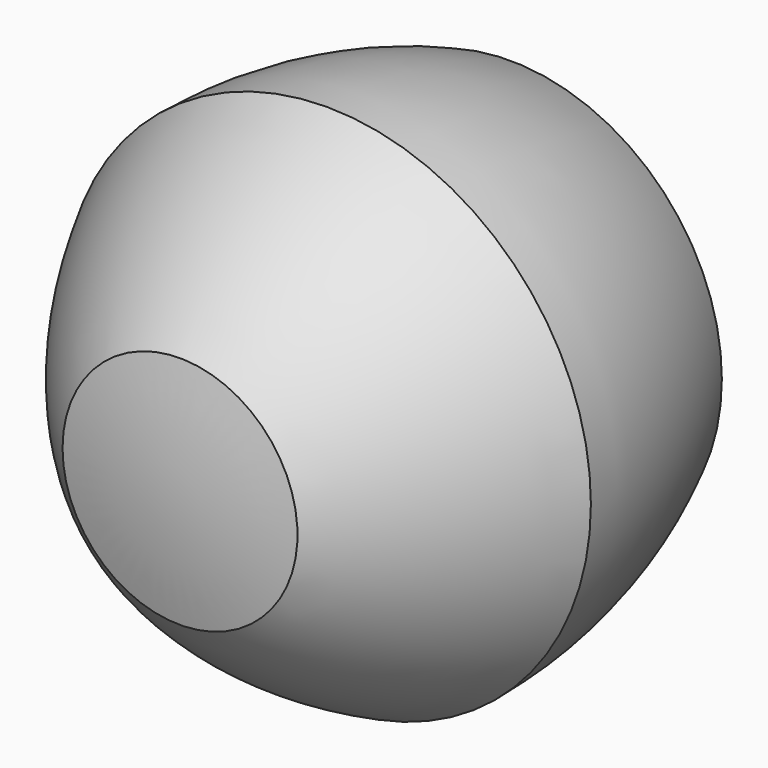
from build123d import *


with BuildPart() as f1:
    # F0 (on Top) → F1 (revolve)
    with BuildSketch(Plane.XY):
        Polygon((0, -50.8), (0, 56.3837462201), (-44.0825878943, 35.1546907588), (-54.9700879833, -12.5465638688), (-24.4639906354, -50.8), align=None)
        with BuildLine():
            Line((-44.0825878943, 35.1546907588), (0, 56.3837462201))
            ThreePointArc((0, 56.3837462201), (-23.2372639922, 48.2526758777), (-44.0825878943, 35.1546907588))
        make_face()
        with BuildLine():
            Line((-54.9700879833, -12.5465638688), (-44.0825878943, 35.1546907588))
            ThreePointArc((-44.0825878943, 35.1546907588), (-52.2136582367, 11.9174267666), (-54.9700879833, -12.5465638688))
        make_face()
        with BuildLine():
            Line((-24.4639906354, -50.8), (-54.9700879833, -12.5465638688))
            ThreePointArc((-54.9700879833, -12.5465638688), (-41.8721028645, -33.391887771), (-24.4639906354, -50.8))
        make_face()
        with BuildLine():
            Line((0, -53.5564297466), (0, -50.8))
            Line((0, -50.8), (-24.4639906354, -50.8))
            ThreePointArc((-24.4639906354, -50.8), (-12.3093942048, -52.8651489958), (0, -53.5564297466))
        make_face()
    revolve(axis=Axis((0, -4.826, 0), (0, -1, 0)))


solid = f1.part
